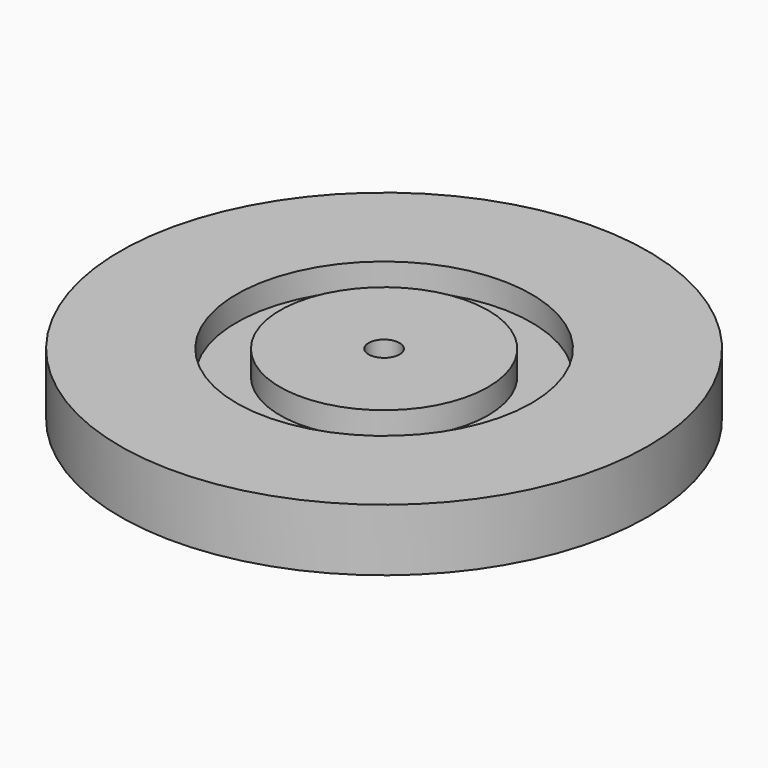
from build123d import *

# Parameters (mm, degrees)
F0_R     = 215.9
F1_DEPTH = 50.8
F2_R     = 120.65
F2_R_2   = 85.09
F3_DEPTH = 20.32
F4_R     = 12.7
F5_DEPTH = 50.801


with BuildPart() as f1:
    # F0 (on Top) → F1 (new body)
    with BuildSketch(Plane.XY):
        Circle(F0_R)
    extrude(amount=F1_DEPTH)

    # F2 (on face) → F3 (cut)
    with BuildSketch(Plane.XY.offset(50.8)):
        Circle(F2_R)
        Circle(F2_R_2, mode=Mode.SUBTRACT)
    extrude(amount=-F3_DEPTH, mode=Mode.SUBTRACT)

    # F4 (on face) → F5 (cut, through all)
    with BuildSketch(Plane.XY.offset(50.8)):
        Circle(F4_R)
    extrude(amount=-F5_DEPTH, mode=Mode.SUBTRACT)


solid = f1.part
